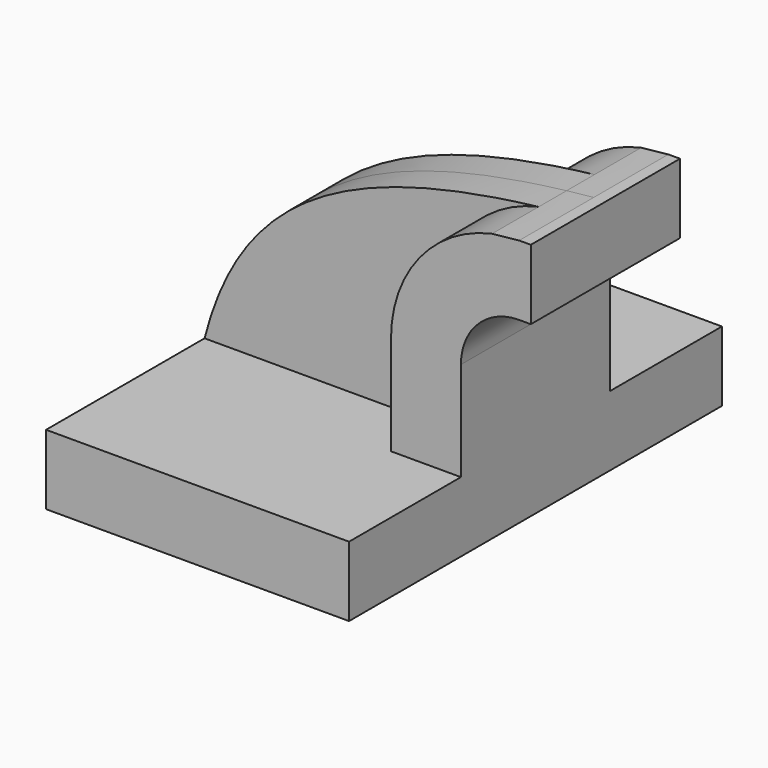
from build123d import *

# Parameters (mm, degrees)
F1_DEPTH = 63.5
F2_DEPTH = 25.4
F3_DEPTH = 9.525


with BuildPart() as f1:
    # F0 (on Front) → F1 (new body, symmetric)
    with BuildSketch(Plane.XZ):
        Polygon((-41.275, -9.525), (41.275, -9.525), (41.275, 9.525), (22.225, 9.525), (-41.275, 9.525), align=None)
    extrude(amount=F1_DEPTH, both=True)

    # F0 (on Front) → F2 (join, symmetric)
    with BuildSketch(Plane.XZ):
        with BuildLine():
            Line((22.225, 9.525), (41.275, 9.525))
            Line((41.275, 9.525), (41.275, 36.5252))
            ThreePointArc((41.275, 36.5252), (45.92468, 47.75052), (57.15, 52.4002))
            Line((57.15, 52.4002), (60.325, 52.4002))
            Line((60.325, 52.4002), (60.325, 71.4502))
            Line((60.325, 71.4502), (57.15, 71.4502))
            add(Edge.make_bspline(
                [(49.751271, 70.657508), (52.166771, 70.942003), (54.632844, 71.205798), (57.15, 71.4502)],
                knots=[111.1633, 111.1633, 111.1633, 111.1633, 116.285042, 116.285042, 116.285042, 116.285042], degree=3))
            ThreePointArc((49.751271, 70.657508), (29.964009, 58.449559), (22.225, 36.5252))
            Line((22.225, 36.5252), (22.225, 9.525))
        make_face()
    extrude(amount=F2_DEPTH, both=True)

    # F0 (on Front) → F3 (join, symmetric)
    with BuildSketch(Plane.XZ):
        with BuildLine():
            add(Edge.make_bspline(
                [(-41.275, 9.525), (-31.278197, 48.557062), (-2.675208, 64.482776), (49.751271, 70.657508)],
                knots=[0, 0, 0, 0, 111.1633, 111.1633, 111.1633, 111.1633], degree=3))
            Line((-41.275, 9.525), (22.225, 9.525))
            Line((22.225, 9.525), (22.225, 36.5252))
            ThreePointArc((22.225, 36.5252), (29.964009, 58.449559), (49.751271, 70.657508))
        make_face()
    extrude(amount=F3_DEPTH, both=True)


solid = f1.part
